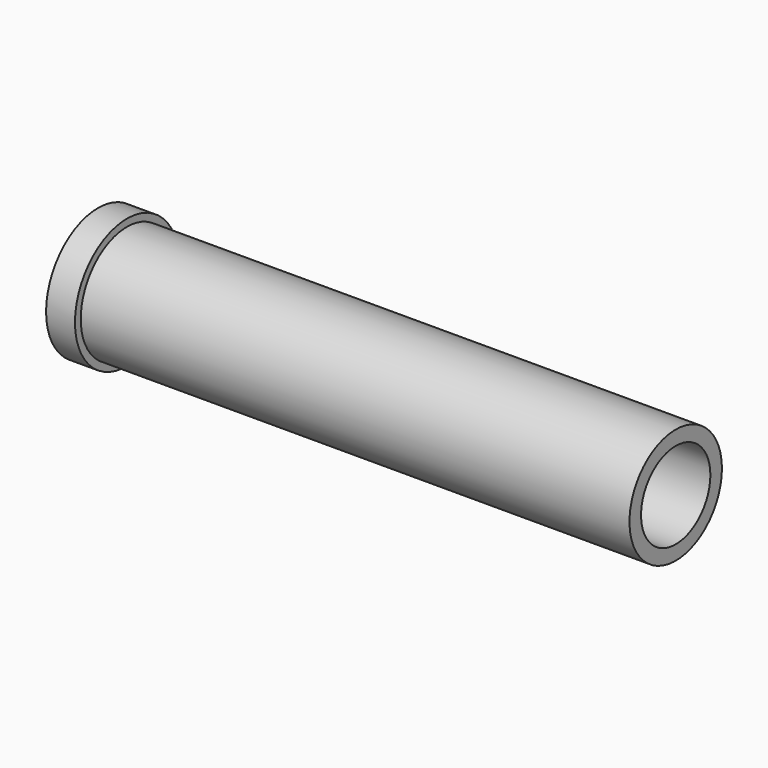
from build123d import *

# Parameters (mm, degrees)
F0_R     = 20
F0_R_2   = 15
F1_DEPTH = 100
F2_R     = 22.5
F2_R_2   = 20
F3_DEPTH = 10


with BuildPart() as f1:
    # F0 (on Right) → F1 (new body, symmetric)
    with BuildSketch(Plane.YZ):
        Circle(F0_R)
        Circle(F0_R_2, mode=Mode.SUBTRACT)
    extrude(amount=F1_DEPTH, both=True)

    # F2 (on face) → F3 (join)
    with BuildSketch(Plane(origin=(-100, 0, 0), x_dir=(0, -1, 0), z_dir=(-1, 0, 0))):
        Circle(F2_R)
        Circle(F2_R_2, mode=Mode.SUBTRACT)
    extrude(amount=-F3_DEPTH)


solid = f1.part
